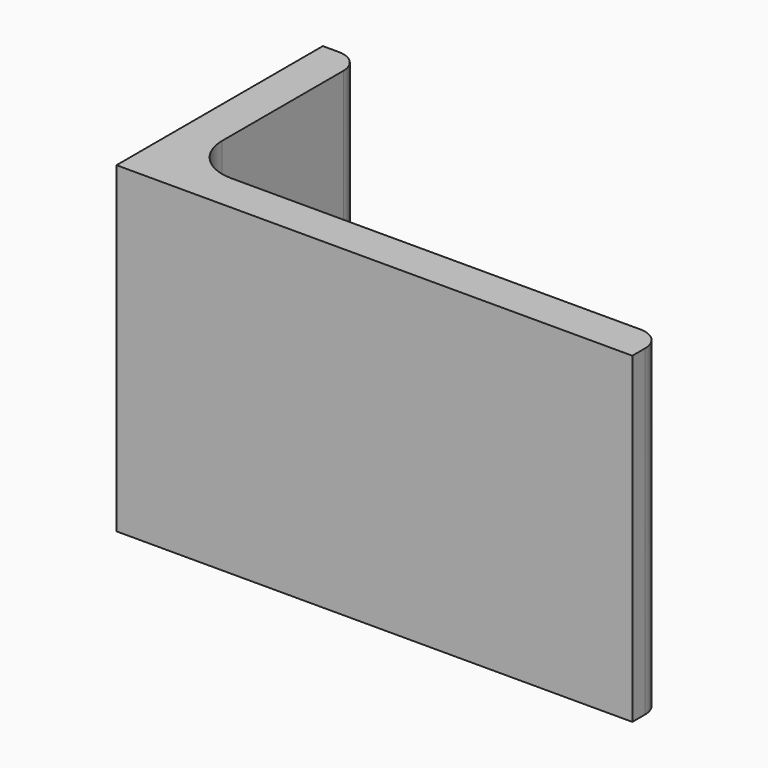
from build123d import *

# Parameters (mm, degrees)
EXTRUDE_DEPTH = 50


with BuildPart() as part:
    # Sketch → Extrude (new body)
    with BuildSketch(Plane.XY):
        with BuildLine():
            Line((0, 0), (80, 0))
            Line((80, 0), (80, 2.5))
            ThreePointArc((80, 2.5), (78.974874, 4.974874), (76.5, 6))
            Line((76.5, 6), (13, 6))
            ThreePointArc((6, 13), (8.050253, 8.050253), (13, 6))
            Line((6, 36.5), (6, 13))
            ThreePointArc((6, 36.5), (4.974874, 38.974874), (2.5, 40))
            Line((0, 40), (2.5, 40))
            Line((0, 0), (0, 40))
        make_face()
    extrude(amount=EXTRUDE_DEPTH)


solid = part.part
